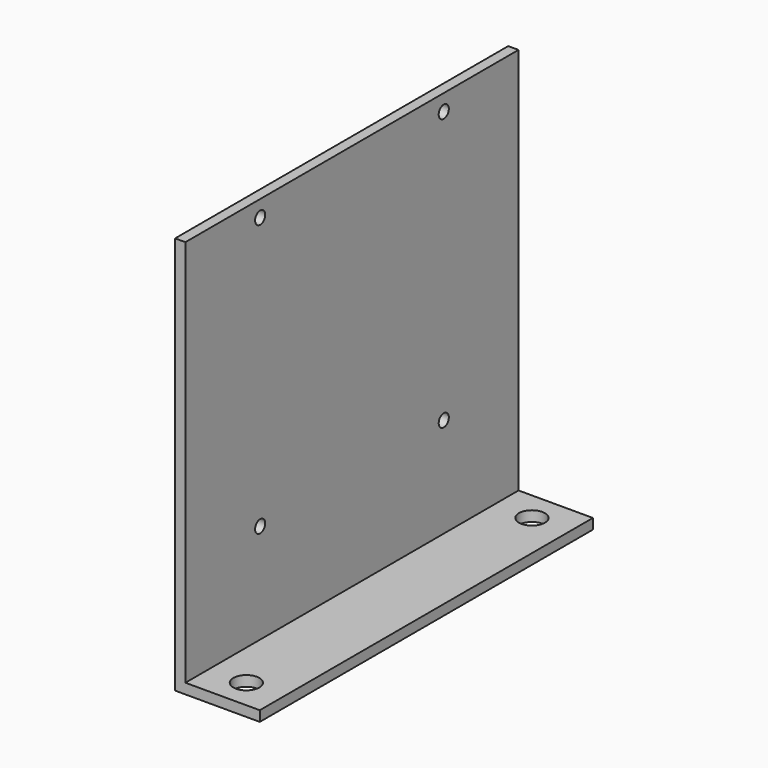
from build123d import *

# Parameters (mm, degrees)
SKETCH_W     = 15.88
SKETCH_H     = 88.9
SKETCH_R     = 2.775
PAD_DEPTH    = 2.2
SKETCH001_W  = 88.9
SKETCH001_H  = 85
SKETCH001_R  = 1.35
PAD001_DEPTH = 2.2


with BuildPart() as part:
    # Sketch → Pad (new body)
    with BuildSketch(Plane.XY):
        Rectangle(SKETCH_W, SKETCH_H)
        with Locations((-0.0025, 38.1)):
            Circle(SKETCH_R, mode=Mode.SUBTRACT)
        with Locations((-0.0025, -38.1)):
            Circle(SKETCH_R, mode=Mode.SUBTRACT)
    extrude(amount=PAD_DEPTH)

    # Sketch001 (on Face4 of Pad) → Pad001 (join)
    with BuildSketch(Plane(origin=(-7.94, 0, 0), x_dir=(0, -1, 0), z_dir=(-1, 0, 0))):
        with Locations((0, 42.5)):
            Rectangle(SKETCH001_W, SKETCH001_H)
        with Locations((-24.5, 23.5)):
            Circle(SKETCH001_R, mode=Mode.SUBTRACT)
        with Locations((24.5, 23.5)):
            Circle(SKETCH001_R, mode=Mode.SUBTRACT)
        with Locations((24.5, 81.5)):
            Circle(SKETCH001_R, mode=Mode.SUBTRACT)
        with Locations((-24.5, 81.5)):
            Circle(SKETCH001_R, mode=Mode.SUBTRACT)
    extrude(amount=PAD001_DEPTH)


solid = part.part
